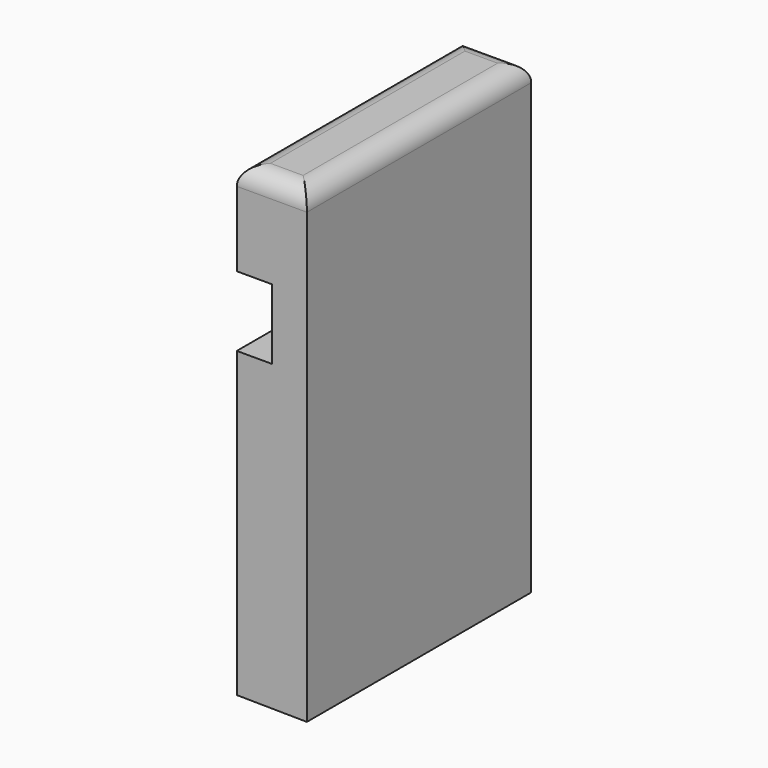
from build123d import *

# Parameters (mm, degrees)
F1_DEPTH = 76.2
F2_R     = 5.08


with BuildPart() as f1:
    # F0 (on Front) → F1 (new body)
    with BuildSketch(Plane.XZ):
        Polygon((11.069345, -64.862475), (30.119345, -65.090583), (30.119345, 61.909417), (11.069345, 61.909417), (11.069345, 36.509417), (20.594345, 36.509417), (20.594345, 17.459417), (11.069345, 17.459417), align=None)
    extrude(amount=-F1_DEPTH)

    # F2
    f2_edges = [f1.edges().sort_by_distance(p)[0] for p in [
        (20.594345, 76.2, 61.909417),
        (30.119345, 38.1, 61.909417),
        (20.594345, 0, 61.909417),
        (11.069345, 38.1, 61.909417),
    ]]
    fillet(f2_edges, radius=F2_R)


solid = f1.part
